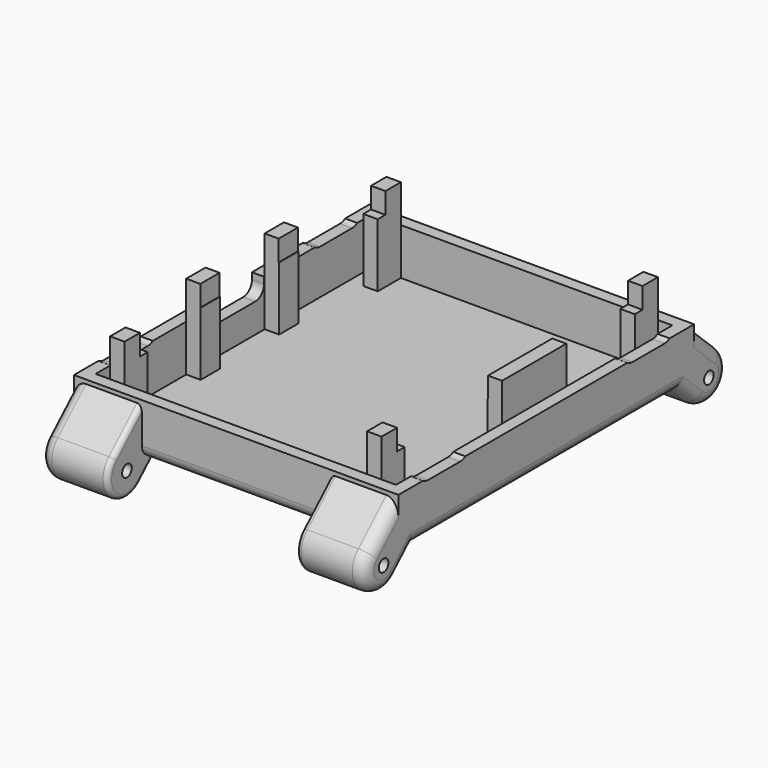
from build123d import *

# Parameters (mm, degrees)
SKETCH003_R     = 0.75
PAD002_DEPTH    = 40.4
SKETCH002_W     = 37.4
SKETCH002_H     = 43
POCKET_DEPTH    = 13
SKETCH004_W     = 9
SKETCH004_H     = 3.2
POCKET001_DEPTH = 2
POCKET005_DEPTH = 2
POCKET006_DEPTH = 2
SKETCH015_W     = 46
SKETCH015_H     = 40.4
POCKET010_DEPTH = 2.5
SKETCH018_W     = 3.6
SKETCH018_H     = 1.8
SKETCH018_W_2   = 10
SKETCH018_W_3   = 3
PAD004_DEPTH    = 10.5
SKETCH020_W     = 38.2
SKETCH020_H     = 33.9
POCKET013_DEPTH = 2.6
POCKET015_DEPTH = 23.5
FILLET004_R     = 1.5
FILLET005_R     = 0.6
FILLET006_R     = 1.35


with BuildPart() as part:
    # Sketch003 → Pad002 (new body)
    with BuildSketch(Plane(origin=(-2, 0, 0), x_dir=(0, -1, 0), z_dir=(-1, 0, 0))):
        with BuildLine():
            Line((-3.2, 6), (1.170226, 1.888902))
            ThreePointArc((-2.940872, -2.481324), (1.29979, -2.35176), (1.170226, 1.888902))
            Line((-5.578597, 0), (-2.940872, -2.481324))
            Line((-5.578597, 0), (-46.821403, 0))
            Line((-46.821403, 0), (-49.459128, -2.481324))
            ThreePointArc((-53.570226, 1.888902), (-53.69979, -2.35176), (-49.459128, -2.481324))
            Line((-49.2, 6), (-53.570226, 1.888902))
            Line((-49.2, 9), (-49.2, 6))
            Line((-3.2, 9), (-49.2, 9))
            Line((-3.2, 9), (-3.2, 6))
        make_face()
        with Locations((-51.514677, -0.296211)):
            Circle(SKETCH003_R, mode=Mode.SUBTRACT)
        with Locations((-0.885323, -0.296211)):
            Circle(SKETCH003_R, mode=Mode.SUBTRACT)
    extrude(amount=-PAD002_DEPTH)

    # Sketch002 → Pocket (cut)
    with BuildSketch(Plane(origin=(0, 0, 0.7), x_dir=(-1, 0, 0), z_dir=(0, 0, -1))):
        with Locations((-18.2, 26.2)):
            Rectangle(SKETCH002_W, SKETCH002_H)
    extrude(amount=-POCKET_DEPTH, mode=Mode.SUBTRACT)

    # Sketch004 (on Face4 of Pocket) → Pocket001 (cut)
    with BuildSketch(Plane(origin=(-2, 0, 0), x_dir=(0, -1, 0), z_dir=(-1, 0, 0))):
        with Locations((-26.4, 5.93)):
            Rectangle(SKETCH004_W, SKETCH004_H)
    extrude(amount=-POCKET001_DEPTH, mode=Mode.SUBTRACT)

    # Sketch010 (on Face5 of Pocket001) → Pocket005 (cut)
    with BuildSketch(Plane.YZ.offset(38.4)):
        with BuildLine():
            ThreePointArc((7.8, 9.05), (6.4, 7.65), (7.8, 6.25))
            Line((7.8, 6.25), (12.8, 6.25))
            ThreePointArc((12.8, 6.25), (14.2, 7.65), (12.8, 9.05))
            Line((12.8, 9.05), (7.8, 9.05))
        make_face()
        with BuildLine():
            ThreePointArc((39.6, 9.05), (38.2, 7.65), (39.6, 6.25))
            Line((39.6, 6.25), (44.6, 6.25))
            ThreePointArc((44.6, 6.25), (46, 7.65), (44.6, 9.05))
            Line((44.6, 9.05), (39.6, 9.05))
        make_face()
    extrude(amount=-POCKET005_DEPTH, mode=Mode.SUBTRACT)

    # Sketch011 (on Face4 of Pocket005) → Pocket006 (cut)
    with BuildSketch(Plane(origin=(-2, 0, 0), x_dir=(0, -1, 0), z_dir=(-1, 0, 0))):
        with BuildLine():
            ThreePointArc((-44.6, 9.05), (-46, 7.65), (-44.6, 6.25))
            Line((-44.6, 6.25), (-39.6, 6.25))
            ThreePointArc((-39.6, 6.25), (-38.2, 7.65), (-39.6, 9.05))
            Line((-39.6, 9.05), (-44.6, 9.05))
        make_face()
        with BuildLine():
            ThreePointArc((-12.8, 9.05), (-14.2, 7.65), (-12.8, 6.25))
            Line((-12.8, 6.25), (-7.8, 6.25))
            ThreePointArc((-7.8, 6.25), (-6.4, 7.65), (-7.8, 9.05))
            Line((-7.8, 9.05), (-12.8, 9.05))
        make_face()
    extrude(amount=-POCKET006_DEPTH, mode=Mode.SUBTRACT)

    # Sketch015 (on Face2 of Pocket006) → Pocket010 (cut)
    with BuildSketch(Plane(origin=(0, 0, 9), x_dir=(0, -1, 0), z_dir=(0, 0, 1))):
        with Locations((-26.2, 18.2)):
            Rectangle(SKETCH015_W, SKETCH015_H)
    extrude(amount=-POCKET010_DEPTH, mode=Mode.SUBTRACT)

    # Sketch018 (on Face23 of Pocket001) → Pad004 (join)
    with BuildSketch(Plane(origin=(0, 0, 0.7), x_dir=(0, -1, 0), z_dir=(0, 0, 1))):
        with Locations((-45.9, 2.2)):
            Rectangle(SKETCH018_W, SKETCH018_H)
        with Locations((-6.5, 2.2)):
            Rectangle(SKETCH018_W, SKETCH018_H)
        with Locations((-6.5, 34.2)):
            Rectangle(SKETCH018_W, SKETCH018_H)
        with Locations((-45.9, 34.2)):
            Rectangle(SKETCH018_W, SKETCH018_H)
        with Locations((-26.2, 36)):
            Rectangle(SKETCH018_W_2, SKETCH018_H)
        with Locations((-20.3, 0.4)):
            Rectangle(SKETCH018_W_3, SKETCH018_H)
        with Locations((-32.5, 0.4)):
            Rectangle(SKETCH018_W_3, SKETCH018_H)
    extrude(amount=PAD004_DEPTH)

    # Sketch020 (on Face72 of Pad004) → Pocket013 (cut)
    with BuildSketch(Plane(origin=(0, 0, 11.2), x_dir=(0, -1, 0), z_dir=(0, 0, 1))):
        with Locations((-26.2, 18.2)):
            Rectangle(SKETCH020_W, SKETCH020_H)
    extrude(amount=-POCKET013_DEPTH, mode=Mode.SUBTRACT)

    # Sketch021 (on Face4 of Pocket010) → Pocket015 (cut)
    with BuildSketch(Plane.YZ.offset(29.95)):
        Polygon((3.2, 6), (3.2, 0), (5.8, 0), (5.8, -5.6), (-3.95, -5.6), (-3.95, 6), align=None)
        Polygon((49.2, 6), (49.2, 0), (46.6, 0), (46.6, -6.2), (57, -6.2), (57, 6), align=None)
    extrude(amount=-POCKET015_DEPTH, mode=Mode.SUBTRACT)

    # Fillet004
    fillet004_edges = [part.edges().sort_by_distance(p)[0] for p in [
        (18.2, 3.2, 0),
        (18.2, 49.2, 0),
        (-2, 26.2, 0),
        (-2, 4.259735, -1.240662),
        (-2, -1.29979, -2.35176),
        (-2, 1.014887, 3.944451),
        (38.4, 1.014887, 3.944451),
        (38.4, -1.29979, -2.35176),
        (38.4, 4.259735, -1.240662),
        (38.4, 26.2, 0),
        (38.4, 48.140265, -1.240662),
        (38.4, 53.69979, -2.35176),
        (38.4, 51.385113, 3.944451),
        (-2, 48.140265, -1.240662),
        (-2, 53.69979, -2.35176),
        (-2, 51.385113, 3.944451),
    ]]
    fillet(fillet004_edges, radius=FILLET004_R)

    # Fillet005
    fillet005_edges = [part.edges().sort_by_distance(p)[0] for p in [
        (6.45, 51.385113, 3.944451),
        (6.45, 53.69979, -2.35176),
        (6.45, 48.140265, -1.240662),
        (29.95, 51.385113, 3.944451),
        (29.95, 53.69979, -2.35176),
        (29.95, 48.140265, -1.240662),
        (29.95, 1.014887, 3.944451),
        (29.95, -1.29979, -2.35176),
        (29.95, 4.259735, -1.240662),
        (6.45, 1.014887, 3.944451),
        (6.45, -1.29979, -2.35176),
        (6.45, 4.259735, -1.240662),
    ]]
    fillet(fillet005_edges, radius=FILLET005_R)

    # Fillet006
    fillet006_edges = [part.edges().sort_by_distance(p)[0] for p in [
        (-1.25, 21.9, 4.33),
        (-1.25, 30.9, 4.33),
    ]]
    fillet(fillet006_edges, radius=FILLET006_R)


with BuildPart() as part_1:
    # Body002 placement: moved
    add(part.part.moved(Location((0, 0, 0.84))))


solid = part_1.part
